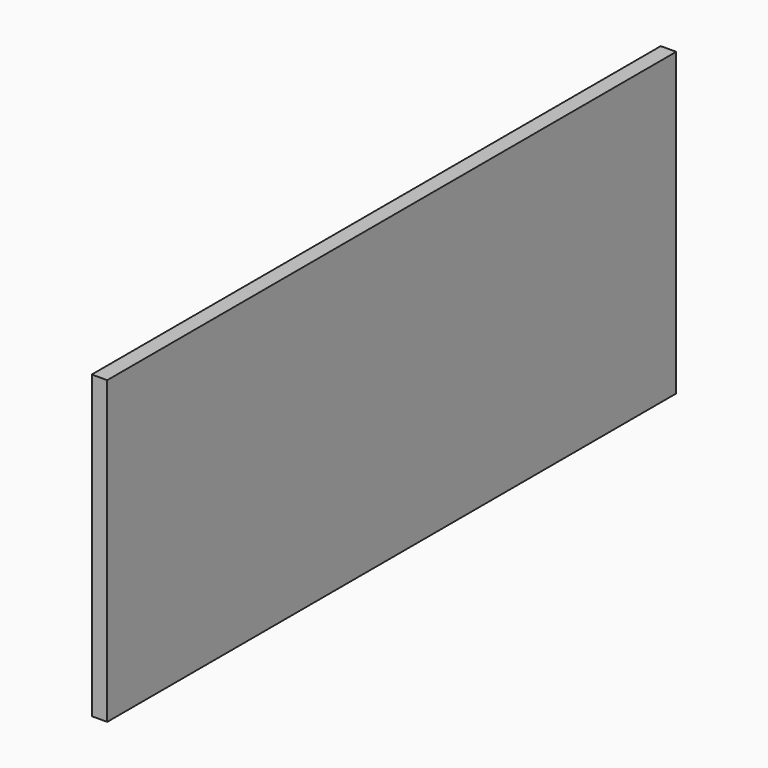
from build123d import *

# Parameters (mm, degrees)
PAD_DEPTH = 10


with BuildPart() as part:
    # Sketch → Pad (new body)
    with BuildSketch(Plane.YZ):
        Polygon((0, 0), (0, 195), (461, 195), (461, 0), (230.5, 0), align=None)
    extrude(amount=-PAD_DEPTH)


solid = part.part
